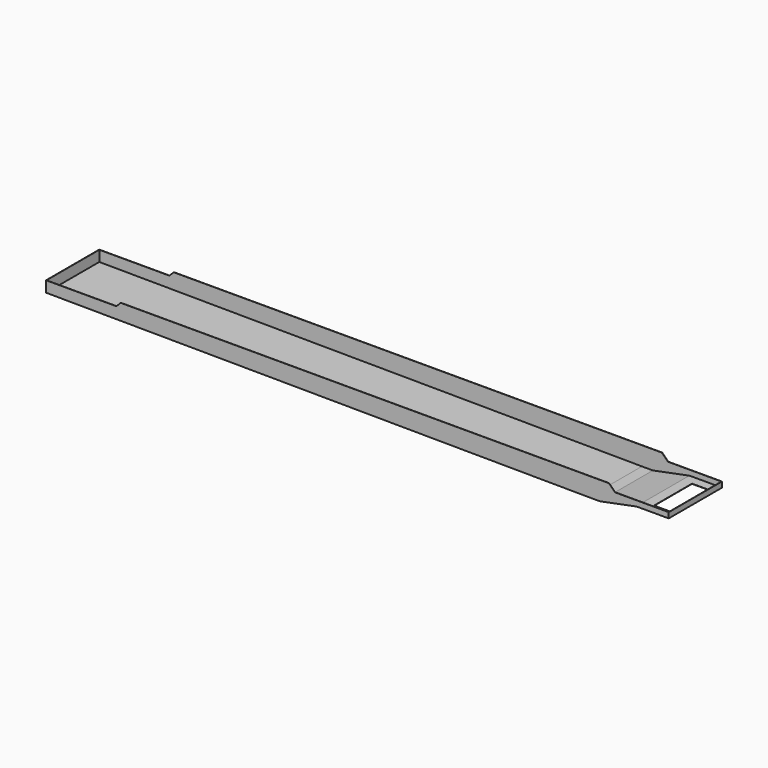
from build123d import *

# Parameters (mm, degrees)
SKETCH_W         = 300
SKETCH_H         = 650
EXTRUDE_DEPTH    = 10
EXTRUDE032_DEPTH = 452
EXTRUDE015_DEPTH = 455


with BuildPart() as extrude_body:
    # Sketch (on Face21 of Cut) → Extrude (new body)
    with BuildSketch(Plane.XY.offset(-334)):
        with Locations((7770, 0)):
            Rectangle(SKETCH_W, SKETCH_H)
    extrude(amount=-EXTRUDE_DEPTH)


with BuildPart() as extrude032:
    # Sketch033 → Extrude032 (new body, symmetric)
    with BuildSketch(Plane.XZ):
        Polygon((-597, -239), (362, -239), (422, -179), (7104, -179), (7187, -262), (7922, -262), (7922, -337), (7482, -337), (6982, -437), (6832, -437), (-597, -389), align=None)
    extrude(amount=EXTRUDE032_DEPTH, both=True)


with BuildPart() as extrude032_1:
    # Extrude032 placement: moved
    add(extrude032.part.moved(Location((0, 0, 3))))


with BuildPart() as cut002:
    # Sketch023 → Extrude015 (new body, symmetric)
    with BuildSketch(Plane.XZ):
        Polygon((-600, -239), (362, -239), (422, -179), (7107, -179), (7190, -262), (7925, -262), (7925, -337), (7485, -337), (6985, -437), (6835, -437), (-600, -389), align=None)
    extrude(amount=EXTRUDE015_DEPTH, both=True)

    # Cut: cut Extrude032
    add(extrude032_1.part, mode=Mode.SUBTRACT)

    # Cut002: cut Extrude body
    add(extrude_body.part, mode=Mode.SUBTRACT)


solid = cut002.part
